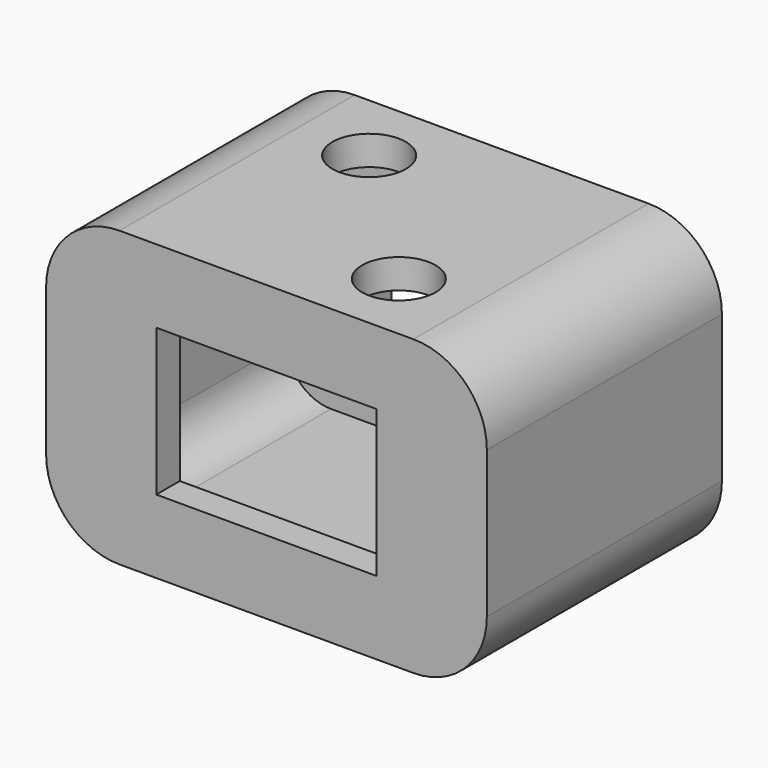
from build123d import *

# Parameters (mm, degrees)
F1_DEPTH = 25.4
F2_W     = 19.05
F2_H     = 12.7
F3_DEPTH = 25.401
F4_T     = -2.54
F6_D     = 6.35
F6_DEPTH = 12.7


with BuildPart() as f1:
    # F0 (on Front) → F1 (new body)
    with BuildSketch(Plane.XZ):
        with BuildLine():
            ThreePointArc((0, 7.381471), (1.859872, 2.891343), (6.35, 1.031471))
            Line((6.35, 1.031471), (31.75, 1.031471))
            ThreePointArc((31.75, 1.031471), (36.240128, 2.891343), (38.1, 7.381471))
            Line((38.1, 7.381471), (38.1, 20.081471))
            ThreePointArc((38.1, 20.081471), (36.240128, 24.571599), (31.75, 26.431471))
            Line((31.75, 26.431471), (6.35, 26.431471))
            ThreePointArc((6.35, 26.431471), (1.859872, 24.571599), (0, 20.081471))
            Line((0, 20.081471), (0, 7.381471))
        make_face()
    extrude(amount=F1_DEPTH)

    # F2 (on face) → F3 (cut, through all)
    with BuildSketch(Plane.XZ.offset(25.4)):
        with Locations((19.05, 13.731471)):
            Rectangle(F2_W, F2_H)
    extrude(amount=-F3_DEPTH, mode=Mode.SUBTRACT)

    # F4
    f4_openings = [f1.faces().sort_by_distance(p)[0] for p in [
        (9.525, -12.7, 13.731471),
        (19.05, -12.7, 20.081471),
        (19.05, -12.7, 7.381471),
        (28.575, -12.7, 13.731471),
    ]]
    offset(amount=F4_T, openings=f4_openings)

    # F6
    with Locations(Plane.XY.offset(26.431471)):
        with Locations((12.636179, -6.286179), (25.463821, -19.113821)):
            Hole(F6_D / 2, depth=F6_DEPTH)


solid = f1.part
